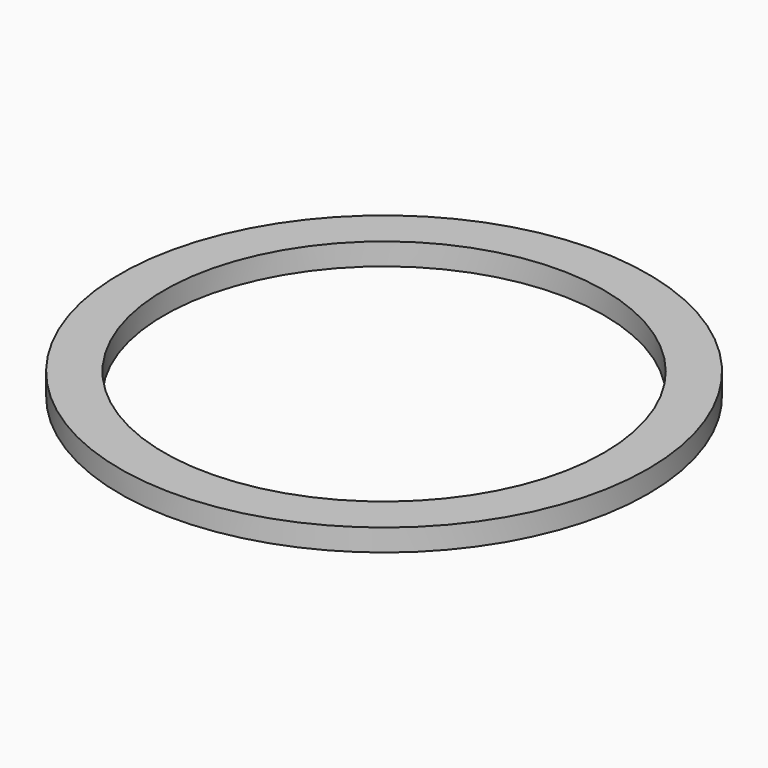
from build123d import *

# Parameters (mm, degrees)
SKETCH_R   = 6
SKETCH_R_2 = 5
PAD_DEPTH  = 0.5


with BuildPart() as part:
    # Sketch → Pad (new body)
    with BuildSketch(Plane.XY):
        Circle(SKETCH_R)
        Circle(SKETCH_R_2, mode=Mode.SUBTRACT)
    extrude(amount=PAD_DEPTH)


solid = part.part
